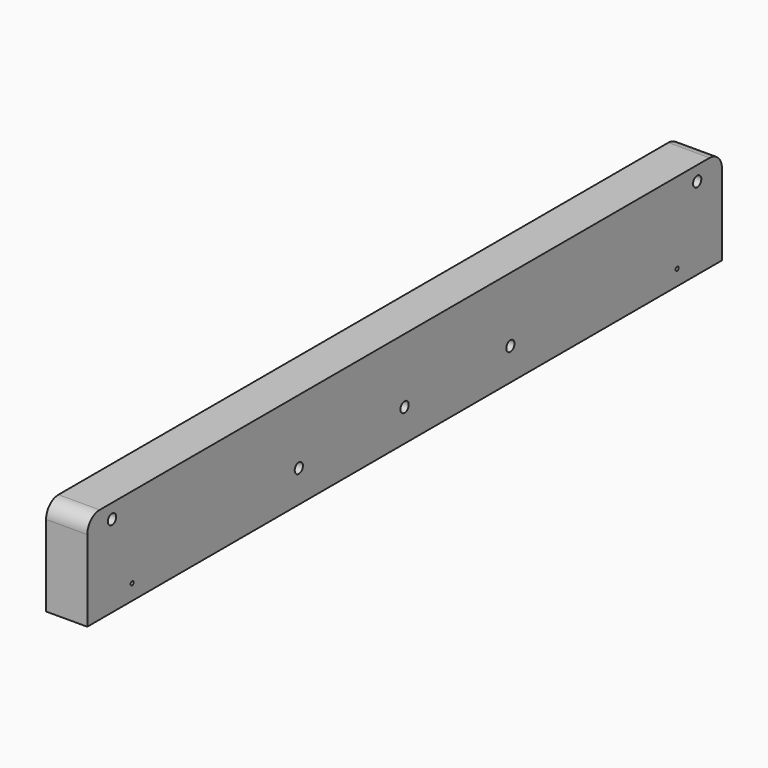
from build123d import *

# Parameters (mm, degrees)
PAD008_DEPTH            = 32
SKETCH017_R             = 1.5
POCKET008_DEPTH         = 24
SKETCH018_R             = 4
POCKET009_DEPTH         = 10
SKETCH019_R             = 4
POCKET010_DEPTH         = 12
LINEARPATTERN003_COUNT  = 5
LINEARPATTERN003_PITCH  = 138
BODY008_ROLL_ANGLE      = 90
BODY008_PLACEMENT_ANGLE = 90


with BuildPart() as part:
    # Sketch016 → Pad008 (new body)
    with BuildSketch(Plane.XY):
        with BuildLine():
            Line((-296, 75), (296, 75))
            ThreePointArc((308, 63), (304.485281, 71.485281), (296, 75))
            Line((308, 63), (308, 0))
            Line((308, 0), (-308, 0))
            Line((-308, 0), (-308, 63))
            ThreePointArc((-296, 75), (-304.485281, 71.485281), (-308, 63))
        make_face()
    extrude(amount=PAD008_DEPTH)

    # Sketch017 (on Face8 of Pad008) → Pocket008 (cut)
    with BuildSketch(Plane.XY.offset(32)):
        with Locations((264.5, 12)):
            Circle(SKETCH017_R)
    pocket008 = extrude(amount=-POCKET008_DEPTH, mode=Mode.SUBTRACT)

    # Mirrored003: Pocket008 across Sketch017 V_Axis
    add(pocket008.mirror(Plane(origin=(0, 0, 32), x_dir=(0, 0, 1), z_dir=(1, 0, 0))), mode=Mode.SUBTRACT)

    # Sketch018 (on Face5 of Mirrored003) → Pocket009 (cut)
    with BuildSketch(Plane.XY.offset(32)):
        with Locations((-284, 63.75)):
            Circle(SKETCH018_R)
        with Locations((284, 63.75)):
            Circle(SKETCH018_R)
        with Locations((-102.666667, 25)):
            Circle(SKETCH018_R)
        with Locations((0, 25)):
            Circle(SKETCH018_R)
        with Locations((102.666667, 25)):
            Circle(SKETCH018_R)
    extrude(amount=-POCKET009_DEPTH, mode=Mode.SUBTRACT)

    # Sketch019 (on Face3 of Pocket009) → Pocket010 (cut)
    with BuildSketch(Plane.XZ):
        with Locations((276, 16)):
            Circle(SKETCH019_R)
    pocket010 = extrude(amount=-POCKET010_DEPTH, mode=Mode.SUBTRACT)

    # LinearPattern003: Pocket010 ×5
    with Locations(*[(-i * LINEARPATTERN003_PITCH, 0, 0) for i in range(1, LINEARPATTERN003_COUNT)]):
        add(pocket010, mode=Mode.SUBTRACT)


with BuildPart() as part_1:
    # Body008 roll: moved
    add(part.part.rotate(Axis((0, 0, 0), (1, 0, 0)), BODY008_ROLL_ANGLE))


with BuildPart() as part_2:
    # Body008 placement: moved
    add(part_1.part.moved(Location((178, 308, 18))).rotate(Axis((178, 308, 18), (0, 0, 1)), BODY008_PLACEMENT_ANGLE))


solid = part_2.part
